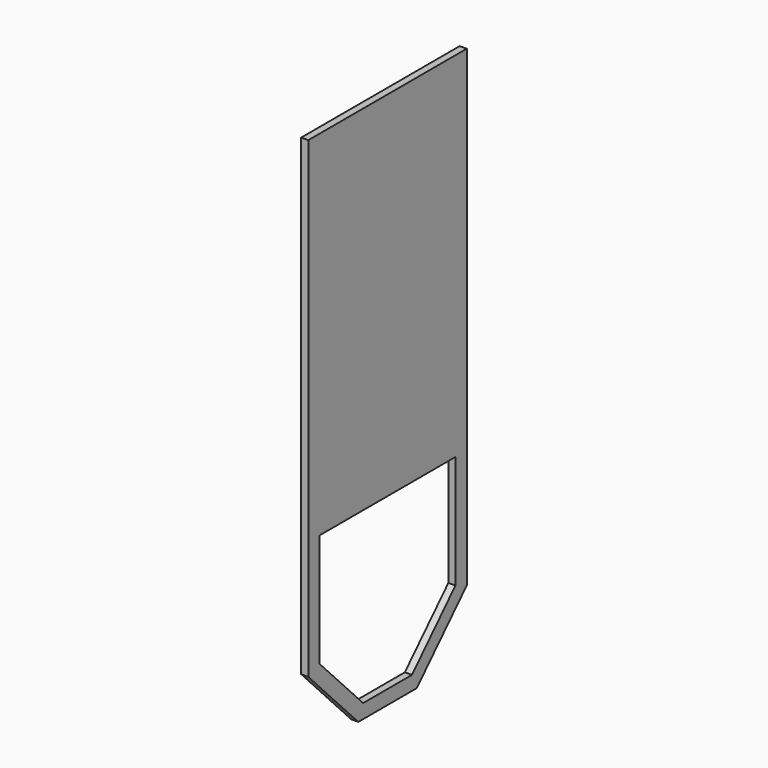
from build123d import *

# Parameters (mm, degrees)
F1_DEPTH = 6.35


with BuildPart() as f1:
    # F0 (on Right) → F1 (new body)
    with BuildSketch(Plane.YZ):
        Polygon((88.9, -212.106475), (88.9, 212.106475), (-88.9, 212.106475), (-88.9, -212.106475), (-32.793536, -270.493525), (32.793536, -270.493525), align=None)
        Polygon((-76.2, -206.993525), (-76.2, -105.393525), (76.2, -105.393525), (76.2, -206.993525), (27.384238, -257.793525), (-27.384238, -257.793525), align=None, mode=Mode.SUBTRACT)
    extrude(amount=-F1_DEPTH)


solid = f1.part
